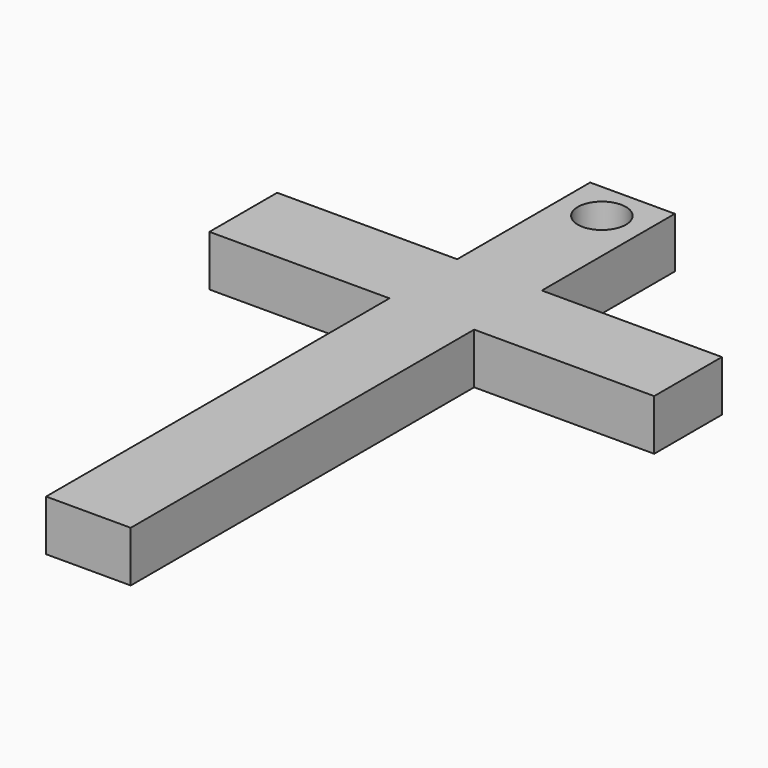
from build123d import *

# Parameters (mm, degrees)
F0_W     = 6.35
F0_H     = 32.1962414332
F0_W_2   = 13.5052071035
F0_H_2   = 6.35
F0_H_3   = 12.4654168449
F0_R     = 1.8052856111
F1_DEPTH = 3.81


with BuildPart() as f1:
    # F0 (on Top) → F1 (new body)
    with BuildSketch(Plane.XY):
        with Locations((0, -9.4077084225)):
            Rectangle(F0_W, F0_H)
        with Locations((-9.9276035517, 9.8654122941)):
            Rectangle(F0_W_2, F0_H_2)
        with Locations((0, 9.8654122941)):
            Rectangle(F0_W, F0_H_2)
        with Locations((9.9276035517, 9.8654122941)):
            Rectangle(F0_W_2, F0_H_2)
        with Locations((0, 19.2731207166)):
            Rectangle(F0_W, F0_H_3)
        with Locations((0, 22.6374231279)):
            Circle(F0_R, mode=Mode.SUBTRACT)
    extrude(amount=F1_DEPTH)


solid = f1.part
